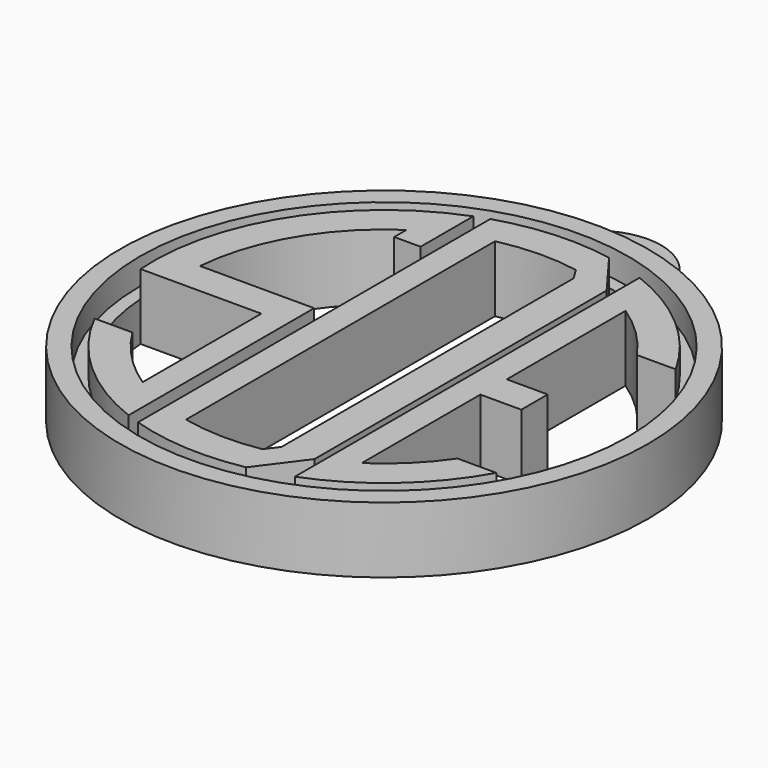
from build123d import *

# Parameters (mm, degrees)
F0_R     = 25.4
F0_R_2   = 23.495
F1_DEPTH = 6.35
F2_DEPTH = 2.54
F4_DEPTH = 2.54


with BuildPart() as f1:
    # F0 (on Top) → F1 (new body)
    with BuildSketch(Plane.XY):
        Circle(F0_R)
        Circle(F0_R_2, mode=Mode.SUBTRACT)
        Circle(F0_R_2)
        with BuildLine():
            ThreePointArc((19.4312153991, 10.7878864062), (21.5152200459, 5.5718875955), (22.225, 0))
            ThreePointArc((22.225, 0), (21.5152200459, -5.5718875955), (19.4312153991, -10.7878864062))
            ThreePointArc((19.4312153991, -10.7878864062), (14.5899693593, -16.7655426126), (8.001, -20.7348649381))
            ThreePointArc((8.001, -20.7348649381), (7.6843906394, -20.8542745139), (7.366, -20.9688499685))
            ThreePointArc((7.366, -20.9688499685), (5.7943813589, -21.4563689768), (4.191, -21.8262718759))
            ThreePointArc((4.191, -21.8262718759), (-1.3103135445, -22.1863404692), (-6.731, -21.1812243272))
            ThreePointArc((-6.731, -21.1812243272), (-7.3693802437, -20.9676622403), (-8.001, -20.7348649381))
            ThreePointArc((-8.001, -20.7348649381), (-14.9111451119, -16.480545393), (-19.833461849, -10.0291782357))
            ThreePointArc((-19.833461849, -10.0291782357), (-21.420808455, -5.9244907069), (-22.1682310695, -1.5875))
            ThreePointArc((-22.1682310695, -1.5875), (-18.7647973594, 11.9093662746), (-8.001, 20.7348649381))
            ThreePointArc((-8.001, 20.7348649381), (-7.3693802437, 20.9676622403), (-6.731, 21.1812243272))
            ThreePointArc((-6.731, 21.1812243272), (-1.3103135445, 22.1863404692), (4.191, 21.8262718759))
            ThreePointArc((4.191, 21.8262718759), (5.7943813589, 21.4563689768), (7.366, 20.9688499685))
            ThreePointArc((7.366, 20.9688499685), (7.6843906394, 20.8542745139), (8.001, 20.7348649381))
            ThreePointArc((8.001, 20.7348649381), (14.5899693593, 16.7655426126), (19.4312153991, 10.7878864062))
        make_face(mode=Mode.SUBTRACT)
        with BuildLine():
            Line((7.366, 17.5682823292), (4.191, 21.8262718759))
            ThreePointArc((4.191, 21.8262718759), (-1.3103135445, 22.1863404692), (-6.731, 21.1812243272))
            Line((-6.731, 21.1812243272), (-6.731, 14.3932823292))
            Line((-6.731, 14.3932823292), (-6.7315069765, 1.5621306643))
            Line((-6.7315069765, 1.5621306643), (-6.731, -1.5875))
            Line((-6.731, -1.5875), (-6.731, -21.1812243272))
            ThreePointArc((-6.731, -21.1812243272), (-1.3103135445, -22.1863404692), (4.191, -21.8262718759))
            Line((4.191, -21.8262718759), (7.366, -17.5682823292))
            Line((7.366, -17.5682823292), (7.366, -1.5875))
            Line((7.366, -1.5875), (7.366, 1.5875))
            Line((7.366, 1.5875), (7.366, 17.5682823292))
        make_face()
        with BuildLine():
            Line((-4.191, 1.5875), (-4.191, 18.5832725589))
            ThreePointArc((-4.191, 18.5832725589), (-0.3670330457, 19.0464638908), (3.4719400554, 18.7309405063))
            Line((3.4719400554, 18.7309405063), (4.191, 17.5682823292))
            Line((4.191, 17.5682823292), (4.191, -17.5672725589))
            Line((4.191, -17.5672725589), (3.3001679253, -18.7619666257))
            ThreePointArc((3.3001679253, -18.7619666257), (-0.4542888274, -19.0445824754), (-4.191, -18.5832725589))
            Line((-4.191, -18.5832725589), (-4.191, -1.5875))
            Line((-4.191, -1.5875), (-4.191, 1.5875))
        make_face(mode=Mode.SUBTRACT)
        with BuildLine():
            Line((-8.001, 14.3932823292), (-8.001, 20.7348649381))
            ThreePointArc((-8.001, 20.7348649381), (-18.7647973594, 11.9093662746), (-22.1682310695, -1.5875))
            Line((-22.1682310695, -1.5875), (-18.9837389297, -1.5875))
            Line((-18.9837389297, -1.5875), (-10.541, -1.5875))
            Line((-10.541, -1.5875), (-10.541, -15.8678864062))
            ThreePointArc((-10.541, -15.8678864062), (-13.6836612477, -13.2536755226), (-16.1962367208, -10.0291782357))
            Line((-16.1962367208, -10.0291782357), (-19.833461849, -10.0291782357))
            ThreePointArc((-19.833461849, -10.0291782357), (-14.9111451119, -16.480545393), (-8.001, -20.7348649381))
            Line((-8.001, -20.7348649381), (-8.001, -1.5875))
            Line((-8.001, -1.5875), (-8.001, 1.5875))
            Line((-8.001, 1.5875), (-18.9837389297, 1.5875))
            ThreePointArc((-18.9837389297, 1.5875), (-16.3984728311, 9.6949775042), (-10.541, 15.8678864062))
            Line((-10.541, 15.8678864062), (-10.541, 14.3932823292))
            Line((-10.541, 14.3932823292), (-8.001, 14.3932823292))
        make_face()
        with BuildLine():
            Line((15.7010829845, 10.7878864062), (19.4312153991, 10.7878864062))
            ThreePointArc((19.4312153991, 10.7878864062), (14.5899693593, 16.7655426126), (8.001, 20.7348649381))
            Line((8.001, 20.7348649381), (8.001, -20.7348649381))
            ThreePointArc((8.001, -20.7348649381), (14.5899693593, -16.7655426126), (19.4312153991, -10.7878864062))
            Line((19.4312153991, -10.7878864062), (15.7010829845, -10.7878864062))
            ThreePointArc((15.7010829845, -10.7878864062), (13.3646298056, -13.5753147351), (10.541, -15.8678864062))
            Line((10.541, -15.8678864062), (10.541, -1.5875))
            Line((10.541, -1.5875), (14.478, -1.5875))
            Line((14.478, -1.5875), (14.478, 1.5875))
            Line((14.478, 1.5875), (10.541, 1.5875))
            Line((10.541, 1.5875), (10.541, 15.8678864062))
            ThreePointArc((10.541, 15.8678864062), (13.3646298056, 13.5753147351), (15.7010829845, 10.7878864062))
        make_face()
        with BuildLine():
            Line((8.001, -20.7348649381), (8.001, 20.7348649381))
            ThreePointArc((8.001, 20.7348649381), (7.6843906394, 20.8542745139), (7.366, 20.9688499685))
            Line((7.366, 20.9688499685), (7.366, 17.5682823292))
            Line((7.366, 17.5682823292), (7.366, 1.5875))
            Line((7.366, 1.5875), (7.366, -1.5875))
            Line((7.366, -1.5875), (7.366, -17.5682823292))
            Line((7.366, -17.5682823292), (7.366, -20.9688499685))
            ThreePointArc((7.366, -20.9688499685), (7.6843906394, -20.8542745139), (8.001, -20.7348649381))
        make_face()
        with BuildLine():
            ThreePointArc((-8.001, -20.7348649381), (-7.3693802437, -20.9676622403), (-6.731, -21.1812243272))
            Line((-6.731, -21.1812243272), (-6.731, -1.5875))
            Line((-6.731, -1.5875), (-7.366, -1.5875))
            Line((-7.366, -1.5875), (-8.001, -1.5875))
            Line((-8.001, -1.5875), (-8.001, -20.7348649381))
        make_face()
        with BuildLine():
            Line((-6.731, 14.3932823292), (-6.731, 21.1812243272))
            ThreePointArc((-6.731, 21.1812243272), (-7.3693802437, 20.9676622403), (-8.001, 20.7348649381))
            Line((-8.001, 20.7348649381), (-8.001, 14.3932823292))
            Line((-8.001, 14.3932823292), (-7.366, 14.3932823292))
            Line((-7.366, 14.3932823292), (-6.731, 14.3932823292))
        make_face()
        Polygon((-6.7315069765, 1.5621306643), (-6.731, 14.3932823292), (-7.366, 14.3932823292), (-7.366, 1.5875), align=None)
        Polygon((-7.366, -1.5875), (-6.731, -1.5875), (-6.7315069765, 1.5621306643), (-7.366, 1.5875), (-8.001, 1.5875), (-8.001, -1.5875), align=None)
    extrude(amount=-F1_DEPTH)

    # F0 (on Top) → F2 (cut)
    with BuildSketch(Plane.XY):
        Circle(F0_R_2)
        with BuildLine():
            ThreePointArc((19.4312153991, 10.7878864062), (21.5152200459, 5.5718875955), (22.225, 0))
            ThreePointArc((22.225, 0), (21.5152200459, -5.5718875955), (19.4312153991, -10.7878864062))
            ThreePointArc((19.4312153991, -10.7878864062), (14.5899693593, -16.7655426126), (8.001, -20.7348649381))
            ThreePointArc((8.001, -20.7348649381), (7.6843906394, -20.8542745139), (7.366, -20.9688499685))
            ThreePointArc((7.366, -20.9688499685), (5.7943813589, -21.4563689768), (4.191, -21.8262718759))
            ThreePointArc((4.191, -21.8262718759), (-1.3103135445, -22.1863404692), (-6.731, -21.1812243272))
            ThreePointArc((-6.731, -21.1812243272), (-7.3693802437, -20.9676622403), (-8.001, -20.7348649381))
            ThreePointArc((-8.001, -20.7348649381), (-14.9111451119, -16.480545393), (-19.833461849, -10.0291782357))
            ThreePointArc((-19.833461849, -10.0291782357), (-21.420808455, -5.9244907069), (-22.1682310695, -1.5875))
            ThreePointArc((-22.1682310695, -1.5875), (-18.7647973594, 11.9093662746), (-8.001, 20.7348649381))
            ThreePointArc((-8.001, 20.7348649381), (-7.3693802437, 20.9676622403), (-6.731, 21.1812243272))
            ThreePointArc((-6.731, 21.1812243272), (-1.3103135445, 22.1863404692), (4.191, 21.8262718759))
            ThreePointArc((4.191, 21.8262718759), (5.7943813589, 21.4563689768), (7.366, 20.9688499685))
            ThreePointArc((7.366, 20.9688499685), (7.6843906394, 20.8542745139), (8.001, 20.7348649381))
            ThreePointArc((8.001, 20.7348649381), (14.5899693593, 16.7655426126), (19.4312153991, 10.7878864062))
        make_face(mode=Mode.SUBTRACT)
        with BuildLine():
            Line((-6.731, 14.3932823292), (-6.731, 21.1812243272))
            ThreePointArc((-6.731, 21.1812243272), (-7.3693802437, 20.9676622403), (-8.001, 20.7348649381))
            Line((-8.001, 20.7348649381), (-8.001, 14.3932823292))
            Line((-8.001, 14.3932823292), (-7.366, 14.3932823292))
            Line((-7.366, 14.3932823292), (-6.731, 14.3932823292))
        make_face()
        Polygon((-6.7315069765, 1.5621306643), (-6.731, 14.3932823292), (-7.366, 14.3932823292), (-7.366, 1.5875), align=None)
        Polygon((-7.366, -1.5875), (-6.731, -1.5875), (-6.7315069765, 1.5621306643), (-7.366, 1.5875), (-8.001, 1.5875), (-8.001, -1.5875), align=None)
        with BuildLine():
            ThreePointArc((-8.001, -20.7348649381), (-7.3693802437, -20.9676622403), (-6.731, -21.1812243272))
            Line((-6.731, -21.1812243272), (-6.731, -1.5875))
            Line((-6.731, -1.5875), (-7.366, -1.5875))
            Line((-7.366, -1.5875), (-8.001, -1.5875))
            Line((-8.001, -1.5875), (-8.001, -20.7348649381))
        make_face()
        with BuildLine():
            Line((8.001, -20.7348649381), (8.001, 20.7348649381))
            ThreePointArc((8.001, 20.7348649381), (7.6843906394, 20.8542745139), (7.366, 20.9688499685))
            Line((7.366, 20.9688499685), (7.366, 17.5682823292))
            Line((7.366, 17.5682823292), (7.366, 1.5875))
            Line((7.366, 1.5875), (7.366, -1.5875))
            Line((7.366, -1.5875), (7.366, -17.5682823292))
            Line((7.366, -17.5682823292), (7.366, -20.9688499685))
            ThreePointArc((7.366, -20.9688499685), (7.6843906394, -20.8542745139), (8.001, -20.7348649381))
        make_face()
    extrude(amount=-F2_DEPTH, mode=Mode.SUBTRACT)

    # F3 (on face) → F4 (join)
    with BuildSketch(Plane(origin=(0, 0, -6.35), x_dir=(1, 0, 0), z_dir=(0, 0, -1))):
        with BuildLine():
            ThreePointArc((-4.4279512894, -25.0110625), (-5.3678907079, -24.826311634), (-6.3001953095, -24.60625))
            ThreePointArc((-6.3001953095, -24.60625), (0, -31.75), (6.3001953095, -24.60625))
            ThreePointArc((6.3001953095, -24.60625), (5.3678907079, -24.826311634), (4.4279512894, -25.0110625))
            ThreePointArc((4.4279512894, -25.0110625), (0, -29.845), (-4.4279512894, -25.0110625))
        make_face()
    extrude(amount=-F4_DEPTH)


solid = f1.part
